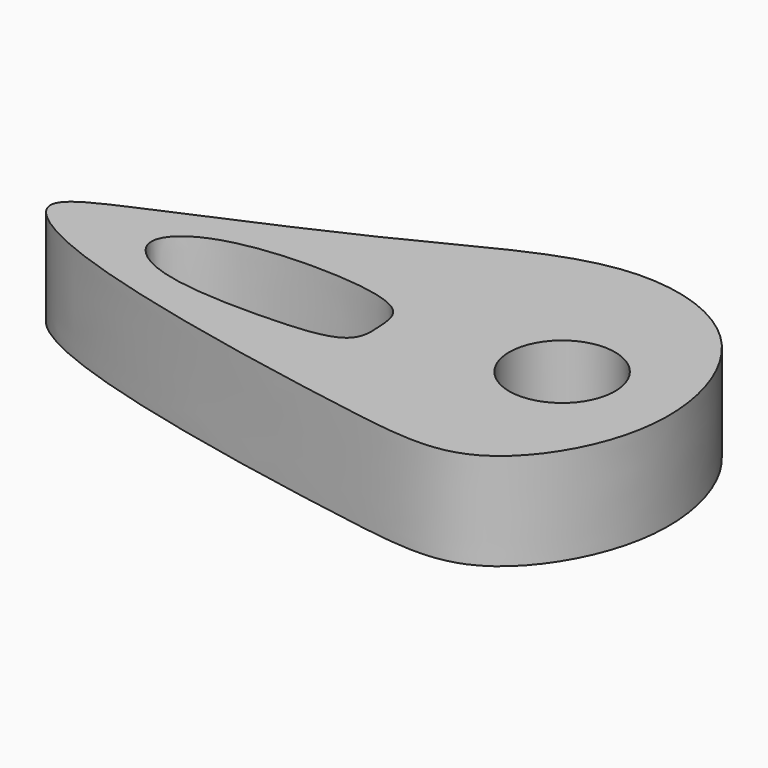
from build123d import *

# Parameters (mm, degrees)
F1_DEPTH = 17.4752
F3_D     = 19.05
F5_DEPTH = 25.4


with BuildPart() as f1:
    # F0 (on Top) → F1 (new body)
    with BuildSketch(Plane.XY):
        with BuildLine():
            add(Edge.make_bspline(
                [(-35.8140021563, 6.5532000735), (-26.01792948, 10.8497371811), (0.6367386791, 22.0519937024), (28.1314390892, 38.3411955784), (56.5502085026, 30.3607887235), (66.4439237773, -0.0735330623), (50.630978069, -26.496573497), (25.1913402122, -23.0196762868), (-33.1367492763, -12.0113490798), (-49.6708335343, 0.3163423372), (-41.1713300912, 4.2034871804), (-35.8140021563, 6.5532000735)],
                knots=[0, 0, 0, 0, 0.1329985376, 0.2530415627, 0.3584430486, 0.4714917585, 0.5778422527, 0.6819996585, 0.8491103792, 0.9272650577, 1, 1, 1, 1], degree=3))
        make_face()
    extrude(amount=F1_DEPTH)

    # F3 (through all)
    with Locations(Plane(origin=(0, 0, 0), x_dir=(1, 0, 0), z_dir=(0, 0, -1))):
        with Locations((42.2148033977, -5.0291987136)):
            Hole(F3_D / 2)

    # F4 (on face) → F5 (cut)
    with BuildSketch(Plane.XY.offset(17.4752)):
        with BuildLine():
            add(Edge.make_bspline(
                [(-27.5844018906, 0), (-27.5507493224, 2.1255044238), (-21.8913491715, 7.7143338616), (-0.5642589736, 8.9998477353), (12.9932361403, 6.0970741089), (13.5931648031, 0.086238229), (14.0311659127, -7.1622592385), (-0.7403775961, -8.4992740368), (-22.2172768981, -7.8994797777), (-27.6176035126, -2.0970225493), (-27.5844018906, 0)],
                knots=[0, 0, 0, 0, 0.1049671161, 0.2814192915, 0.413716917, 0.4970961508, 0.5841539713, 0.7187889807, 0.8964394489, 1, 1, 1, 1], degree=3))
        make_face()
    extrude(amount=-F5_DEPTH, mode=Mode.SUBTRACT)


solid = f1.part
